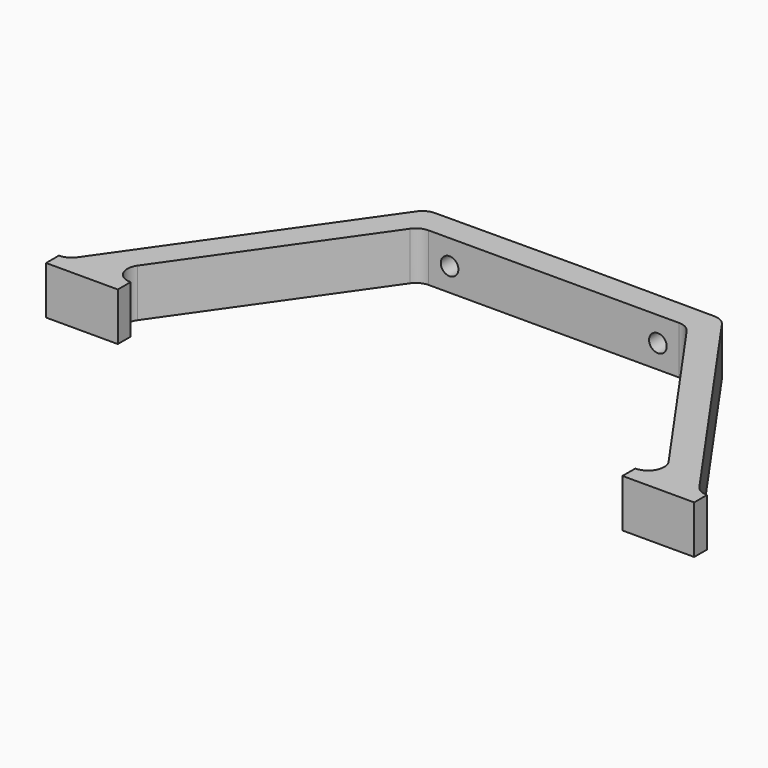
from build123d import *

# Parameters (mm, degrees)
F1_DEPTH = 9
F2_R     = 1.65
F3_DEPTH = 25


with BuildPart() as f1:
    # F0 (on Top) → F1 (new body)
    with BuildSketch(Plane.XY):
        with BuildLine():
            Line((-49.702811, -40.279271), (-25.895755, -6.279271))
            ThreePointArc((-25.895755, -6.279271), (-24.823545, -5.338968), (-23.438299, -5))
            Line((-23.438299, -5), (0, -5))
            Line((0, -5), (23.438299, -5))
            ThreePointArc((23.438299, -5), (24.823545, -5.338968), (25.895755, -6.279271))
            Line((25.895755, -6.279271), (49.702811, -40.279271))
            ThreePointArc((49.702811, -40.279271), (49.906388, -43.385246), (47.245355, -45))
            Line((47.245355, -45), (47.245355, -48))
            Line((47.245355, -48), (60.673876, -48))
            Line((60.673876, -48), (60.673876, -45))
            ThreePointArc((60.673876, -45), (59.28863, -44.661032), (58.216419, -43.720729))
            Line((58.216419, -43.720729), (28.588166, -1.407198))
            ThreePointArc((28.588166, -1.407198), (27.522463, -0.470292), (26.145392, -0.127963))
            Line((26.145392, -0.127963), (0, 0))
            Line((0, 0), (-26.145392, -0.127963))
            ThreePointArc((-26.145392, -0.127963), (-27.522463, -0.470292), (-28.588166, -1.407198))
            Line((-28.588166, -1.407198), (-58.216419, -43.720729))
            ThreePointArc((-58.216419, -43.720729), (-59.28863, -44.661032), (-60.673876, -45))
            Line((-60.673876, -45), (-60.673876, -48))
            Line((-60.673876, -48), (-47.245355, -48))
            Line((-47.245355, -48), (-47.245355, -45))
            ThreePointArc((-47.245355, -45), (-49.906388, -43.385246), (-49.702811, -40.279271))
        make_face()
    extrude(amount=F1_DEPTH)

    # F2 (on face) → F3 (cut)
    with BuildSketch(Plane(origin=(0, 0, 0), x_dir=(-0.999988, 0.004894, 0), z_dir=(0.004894, 0.999988, 0))):
        with Locations((-19.5, 4.371774)):
            Circle(F2_R)
        with Locations((19.5, 4.371774)):
            Circle(F2_R)
    extrude(amount=-F3_DEPTH, mode=Mode.SUBTRACT)


solid = f1.part
